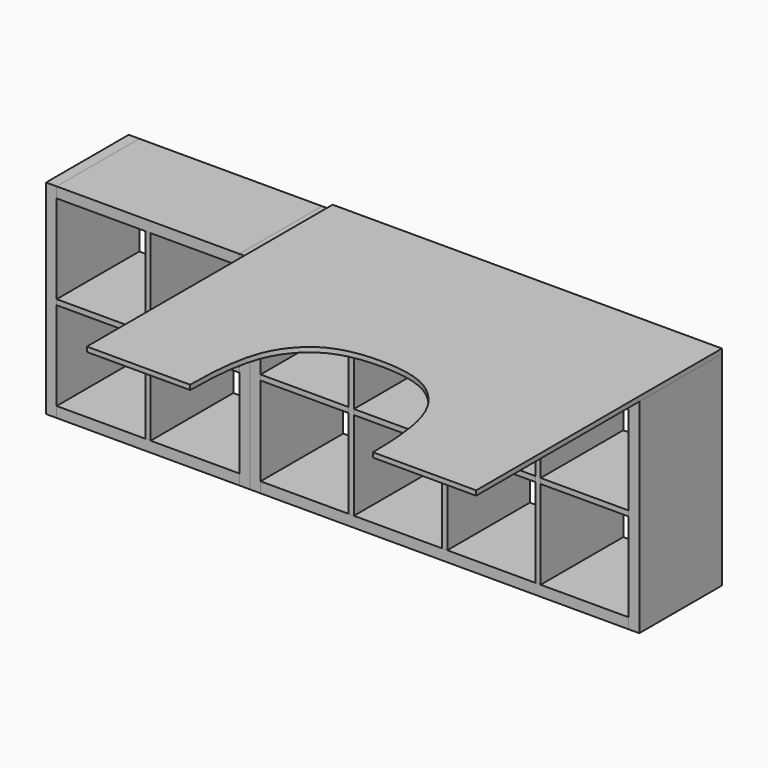
from build123d import *

# Parameters (mm, degrees)
F1_DEPTH = 390
F2_DEPTH = 390
F0_W     = 335
F0_H     = 20
F0_W_2   = 332.5
F3_DEPTH = 390
F4_W     = 1390
F4_H     = 390
F5_DEPTH = 18


with BuildPart() as f1:
    # F0 (on Front) → F1 (new body)
    with BuildSketch(Plane.XZ):
        Polygon((-770, 0), (-730, 0), (-730, 40), (-730, 375), (-730, 395), (-730, 730), (-730, 770), (-770, 770), align=None)
    extrude(amount=F1_DEPTH)


with BuildPart() as f1b:
    # F0 (on Front) → F1, piece 2 (new body)
    with BuildSketch(Plane.XZ):
        Polygon((-395, 40), (-375, 40), (-375, 375), (-375, 395), (-375, 730), (-395, 730), (-395, 395), (-395, 375), align=None)
    extrude(amount=F1_DEPTH)


with BuildPart() as f1c:
    # F0 (on Front) → F1, piece 3 (new body)
    with BuildSketch(Plane.XZ):
        Polygon((-40, 0), (0, 0), (0, 770), (-40, 770), (-40, 730), (-40, 395), (-40, 375), (-40, 40), align=None)
    extrude(amount=F1_DEPTH)


with BuildPart() as f1d:
    # F0 (on Front) → F1, piece 4 (new body)
    with BuildSketch(Plane.XZ):
        Polygon((372.5, 375), (372.5, 40), (392.5, 40), (392.5, 375), (392.5, 395), (392.5, 730), (372.5, 730), (372.5, 395), align=None)
    extrude(amount=F1_DEPTH)


with BuildPart() as f1e:
    # F0 (on Front) → F1, piece 5 (new body)
    with BuildSketch(Plane.XZ):
        Polygon((725, 375), (725, 40), (745, 40), (745, 375), (745, 395), (745, 730), (725, 730), (725, 395), align=None)
    extrude(amount=F1_DEPTH)


with BuildPart() as f1f:
    # F0 (on Front) → F1, piece 6 (new body)
    with BuildSketch(Plane.XZ):
        Polygon((1077.5, 40), (1097.5, 40), (1097.5, 375), (1097.5, 395), (1097.5, 730), (1077.5, 730), (1077.5, 395), (1077.5, 375), align=None)
    extrude(amount=F1_DEPTH)


with BuildPart() as f1g:
    # F0 (on Front) → F1, piece 7 (new body)
    with BuildSketch(Plane.XZ):
        Polygon((1430, 40), (1430, 0), (1470, 0), (1470, 770), (1430, 770), (1430, 730), (1430, 395), (1430, 375), align=None)
    extrude(amount=F1_DEPTH)


with BuildPart() as f2:
    # F0 (on Front) → F2 (new body)
    with BuildSketch(Plane.XZ):
        Polygon((-40, 730), (-40, 770), (-730, 770), (-730, 730), (-395, 730), (-375, 730), align=None)
    extrude(amount=F2_DEPTH)


with BuildPart() as f2b:
    # F0 (on Front) → F2, piece 2 (new body)
    with BuildSketch(Plane.XZ):
        with Locations((-562.5, 385)):
            Rectangle(F0_W, F0_H)
    extrude(amount=F2_DEPTH)


with BuildPart() as f2c:
    # F0 (on Front) → F2, piece 3 (new body)
    with BuildSketch(Plane.XZ):
        with Locations((-207.5, 385)):
            Rectangle(F0_W, F0_H)
    extrude(amount=F2_DEPTH)


with BuildPart() as f2d:
    # F0 (on Front) → F2, piece 4 (new body)
    with BuildSketch(Plane.XZ):
        Polygon((-730, 0), (-40, 0), (-40, 40), (-375, 40), (-395, 40), (-730, 40), align=None)
    extrude(amount=F2_DEPTH)


with BuildPart() as f2e:
    # F0 (on Front) → F2, piece 5 (new body)
    with BuildSketch(Plane.XZ):
        Polygon((0, 770), (0, 0), (40, 0), (40, 40), (40, 375), (40, 395), (40, 730), (40, 770), align=None)
    extrude(amount=F2_DEPTH)


with BuildPart() as f2f:
    # F0 (on Front) → F2, piece 6 (new body)
    with BuildSketch(Plane.XZ):
        with Locations((558.75, 385)):
            Rectangle(F0_W_2, F0_H)
    extrude(amount=F2_DEPTH)


with BuildPart() as f2g:
    # F0 (on Front) → F2, piece 7 (new body)
    with BuildSketch(Plane.XZ):
        with Locations((911.25, 385)):
            Rectangle(F0_W_2, F0_H)
    extrude(amount=F2_DEPTH)


with BuildPart() as f2h:
    # F0 (on Front) → F2, piece 8 (new body)
    with BuildSketch(Plane.XZ):
        with Locations((1263.75, 385)):
            Rectangle(F0_W_2, F0_H)
    extrude(amount=F2_DEPTH)


with BuildPart() as f3:
    # F0 (on Front) → F3 (new body)
    with BuildSketch(Plane.XZ):
        Polygon((40, 40), (40, 0), (1430, 0), (1430, 40), (1097.5, 40), (1077.5, 40), (745, 40), (725, 40), (392.5, 40), (372.5, 40), align=None)
    extrude(amount=F3_DEPTH)


with BuildPart() as f3b:
    # F0 (on Front) → F3, piece 2 (new body)
    with BuildSketch(Plane.XZ):
        with Locations((206.25, 385)):
            Rectangle(F0_W_2, F0_H)
    extrude(amount=F3_DEPTH)


with BuildPart() as f3c:
    # F0 (on Front) → F3, piece 3 (new body)
    with BuildSketch(Plane.XZ):
        Polygon((1430, 770), (40, 770), (40, 730), (372.5, 730), (392.5, 730), (725, 730), (745, 730), (1077.5, 730), (1097.5, 730), (1430, 730), align=None)
    extrude(amount=F3_DEPTH)


with BuildPart() as f5:
    # F4 (on face) → F5 (new body)
    with BuildSketch(Plane.XY.offset(770)):
        with BuildLine():
            Line((40, 0), (0, 0))
            Line((0, 0), (0, -390))
            Line((0, -390), (0, -1160))
            Line((0, -1160), (390, -1160))
            add(Edge.make_bspline(
                [(390, -1160), (390, -932.241499424), (454.8877808063, -770.199781247), (600.7550063969, -690), (735, -690)],
                knots=[0, 0, 0, 0, 0.5492145586, 1, 1, 1, 1], degree=3))
            add(Edge.make_bspline(
                [(1080, -1160), (1080, -932.241499424), (1015.1122191937, -770.199781247), (869.2449936031, -690), (735, -690)],
                knots=[0, 0, 0, 0, 0.5492145586, 1, 1, 1, 1], degree=3))
            Line((1080, -1160), (1470, -1160))
            Line((1470, -1160), (1470, -390))
            Line((1470, -390), (1470, 0))
            Line((1470, 0), (1430, 0))
            Line((1430, 0), (1430, -390))
            Line((1430, -390), (40, -390))
            Line((40, -390), (40, 0))
        make_face()
        with Locations((735, -195)):
            Rectangle(F4_W, F4_H)
    extrude(amount=F5_DEPTH)


solid = Compound([f1.part, f1b.part, f1c.part, f1d.part, f1e.part, f1f.part, f1g.part, f2.part, f2b.part, f2c.part, f2d.part, f2e.part, f2f.part, f2g.part, f2h.part, f3.part, f3b.part, f3c.part, f5.part])
